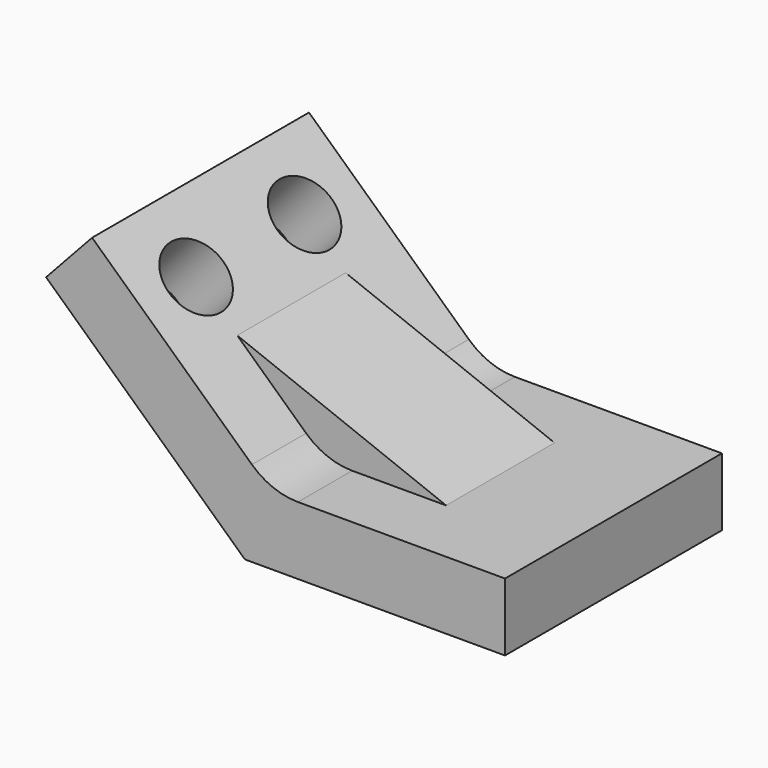
from build123d import *

# Parameters (mm, degrees)
F1_DEPTH = 25.4
F2_R     = 12.7
F4_DEPTH = 12.7
F5_R     = 6.35
F6_DEPTH = 25.4


with BuildPart() as f1:
    # F0 (on Front) → F1 (new body, symmetric)
    with BuildSketch(Plane.XZ):
        Polygon((-37.249966, 34.434151), (0, 0), (48.737777, 0), (48.737777, 12.7), (4.970752, 12.7), (-28.62911, 43.759968), align=None)
    extrude(amount=F1_DEPTH, both=True)

    # F2
    f2_edges = [f1.edges().sort_by_distance(p)[0] for p in [
        (4.970752, 0, 12.7),
    ]]
    fillet(f2_edges, radius=F2_R)

    # F3 (on Front) → F4 (join, symmetric)
    with BuildSketch(Plane.XZ):
        Polygon((4.970752, 12.7), (27.530322, 12.7), (-11.595107, 28.013606), align=None)
    extrude(amount=F4_DEPTH, both=True)

    # F5 (on face) → F6 (cut)
    with BuildSketch(Plane(origin=(8.620855, 0, 9.325816), x_dir=(0.734316, 0, -0.678808), z_dir=(0.678808, 0, 0.734316))):
        with Locations((-38.027416, -12.7)):
            Circle(F5_R)
        with Locations((-38.027416, 12.7)):
            Circle(F5_R)
    extrude(amount=-F6_DEPTH, mode=Mode.SUBTRACT)


solid = f1.part
